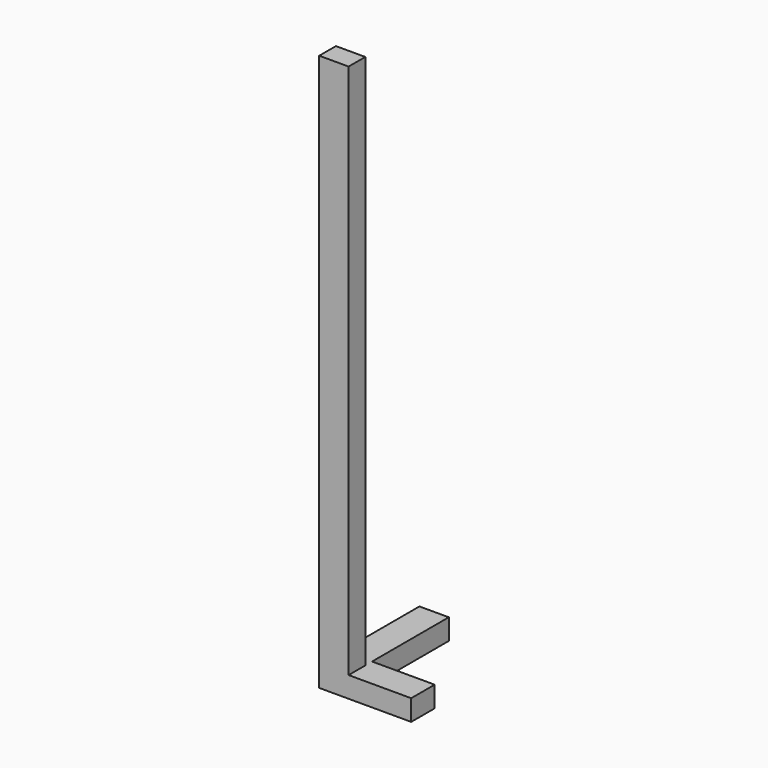
from build123d import *

# Parameters (mm, degrees)
F0_W     = 42.2
F0_H     = 30
F1_DEPTH = 800
F2_DEPTH = 30


with BuildPart() as f1:
    # F0 (on Top) → F1 (new body)
    with BuildSketch(Plane.XY):
        Rectangle(F0_W, F0_H)
    extrude(amount=F1_DEPTH)

    # F0 (on Top) → F2 (join)
    with BuildSketch(Plane.XY):
        Polygon((21.1, 15), (21.1, -15), (111.1, -15), (111.1, 27.2), (21.1, 27.2), align=None)
        Polygon((-21.1, 15), (21.1, 15), (21.1, 27.2), (21.1, 165), (-21.1, 165), align=None)
    extrude(amount=F2_DEPTH)


solid = f1.part
